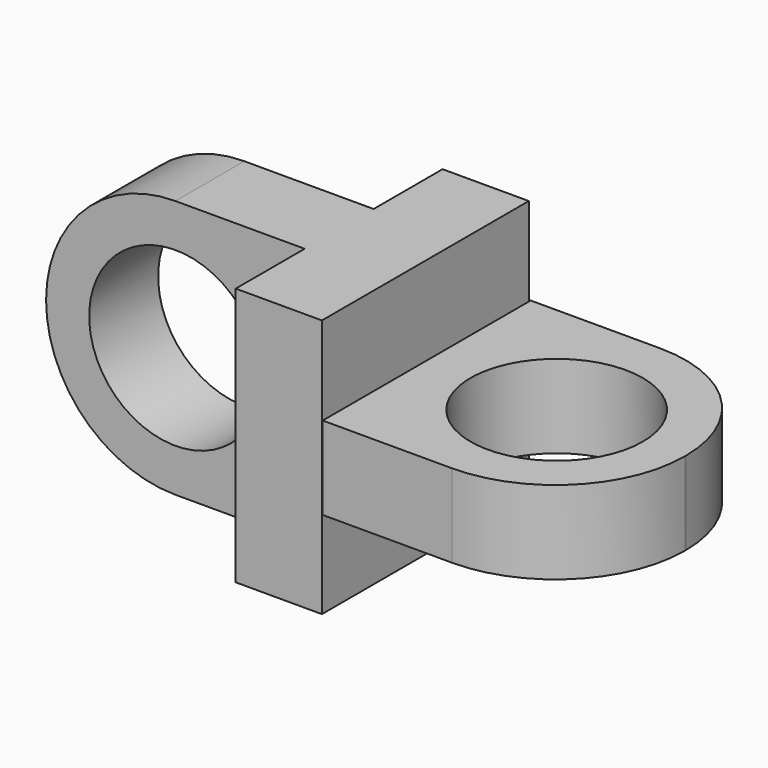
from build123d import *

# Parameters (mm, degrees)
F8_R          = 20
F0_DEPTH      = 10
F0_DEPTH_BACK = 10
F1_W          = 20
F1_H          = 60
F2_DEPTH      = 20
F9_DEPTH      = 60
F6_R          = 20
F10_DEPTH     = 25
F7_R          = 30


with BuildPart() as f0:
    # F8 (on Front) → F0 (new body, two sides)
    with BuildSketch(Plane.XZ) as f0_sk:
        with BuildLine():
            Line((30, 30), (0, 30))
            ThreePointArc((0, 30), (-30, 0), (0, -30))
            Line((0, -30), (30, -30))
            Line((30, -30), (30, 30))
        make_face()
        Circle(F8_R, mode=Mode.SUBTRACT)
        with BuildLine():
            Line((30, 30), (0, 30))
            ThreePointArc((0, 30), (-30, 0), (0, -30))
            Line((0, -30), (30, -30))
            Line((30, -30), (30, 30))
        make_face()
        Circle(F8_R, mode=Mode.SUBTRACT)
    extrude(amount=F0_DEPTH)
    extrude(f0_sk.sketch, amount=-F0_DEPTH_BACK)

    # F1 (on face) → F2 (join)
    with BuildSketch(Plane.YZ.offset(30)):
        with Locations((-20, 0)):
            Rectangle(F1_W, F1_H)
        with Locations((20, 0)):
            Rectangle(F1_W, F1_H)
        Polygon((10, 30), (0, 30), (-10, 30), (-10, -30), (0, -30), (10, -30), align=None)
    extrude(amount=F2_DEPTH)

    # F5 (on offset) → F9 (join)
    with BuildSketch(Plane.YZ.offset(50)):
        Polygon((-29.7670396838, 9.4578760595), (-29.7670396838, -0.5421239405), (-29.7670396838, -9.8316618399), (30.5491250266, -9.8316618399), (30.5491250266, 9.4578760595), align=None)
    extrude(amount=F9_DEPTH)

    # F6 (on face) → F10 (cut)
    with BuildSketch(Plane.XY.offset(9.4578760595)):
        with Locations((80.4655393111, 0)):
            Circle(F6_R)
    extrude(amount=-F10_DEPTH, mode=Mode.SUBTRACT)

    # F7
    f7_edges = [f0.edges().sort_by_distance(p)[0] for p in [
        (110, -29.76704, -0.186893),
        (110, 30.549125, -0.186893),
    ]]
    fillet(f7_edges, radius=F7_R)


solid = f0.part
